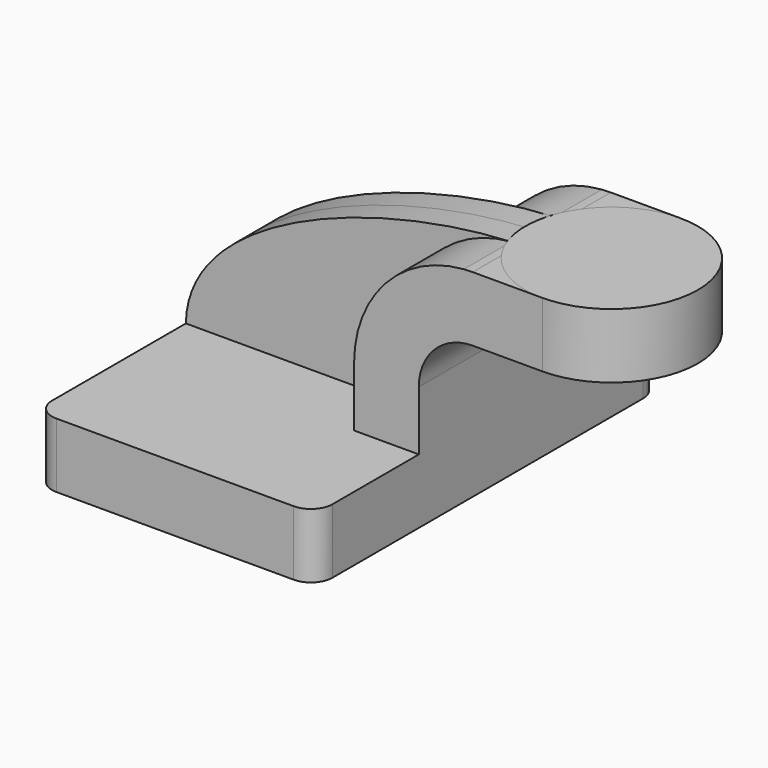
from build123d import *

# Parameters (mm, degrees)
F1_DEPTH = 63.5
F2_DEPTH = 25.4
F3_DEPTH = 7.9375
F0_W     = 25.4
F0_H     = 19.05
F5_R     = 6.35


with BuildPart() as f1:
    # F0 (on Front) → F1 (new body, symmetric)
    with BuildSketch(Plane.XZ):
        Polygon((-41.275, -9.525), (41.275, -9.525), (41.275, 9.525), (22.225, 9.525), (-41.275, 9.525), align=None)
    extrude(amount=F1_DEPTH, both=True)

    # F0 (on Front) → F2 (join, symmetric)
    with BuildSketch(Plane.XZ):
        with BuildLine():
            Line((22.225, 9.525), (41.275, 9.525))
            Line((41.275, 9.525), (41.275, 27.0002))
            ThreePointArc((41.275, 27.0002), (45.92468, 38.22552), (57.15, 42.8752))
            Line((57.15, 42.8752), (77.714364, 42.8752))
            Line((77.714364, 42.8752), (77.714364, 61.9252))
            Line((77.714364, 61.9252), (57.15, 61.9252))
            add(Edge.make_bspline(
                [(54.507831, 61.825113), (55.396234, 61.867184), (56.27721, 61.90057), (57.15, 61.9252)],
                knots=[109.087044, 109.087044, 109.087044, 109.087044, 111.504536, 111.504536, 111.504536, 111.504536], degree=3))
            ThreePointArc((54.507831, 61.825113), (31.537177, 50.743387), (22.225, 27.0002))
            Line((22.225, 27.0002), (22.225, 9.525))
        make_face()
    extrude(amount=F2_DEPTH, both=True)

    # F0 (on Front) → F3 (join, symmetric)
    with BuildSketch(Plane.XZ):
        with BuildLine():
            add(Edge.make_bspline(
                [(-41.275, 9.525), (-40.790766, 40.343855), (14.419496, 59.926707), (54.507831, 61.825113)],
                knots=[0, 0, 0, 0, 109.087044, 109.087044, 109.087044, 109.087044], degree=3))
            Line((-41.275, 9.525), (22.225, 9.525))
            Line((22.225, 9.525), (22.225, 27.0002))
            ThreePointArc((22.225, 27.0002), (31.537177, 50.743387), (54.507831, 61.825113))
        make_face()
    extrude(amount=F3_DEPTH, both=True)

    # F5
    f5_edges = [f1.edges().sort_by_distance(p)[0] for p in [
        (41.275, -63.5, 0),
        (-41.275, -63.5, 0),
        (41.275, 63.5, 0),
        (-41.275, 63.5, 0),
    ]]
    fillet(f5_edges, radius=F5_R)


with BuildPart() as f4:
    # F0 (on Front) → F4 (revolve)
    with BuildSketch(Plane.XZ):
        with Locations((90.414364, 52.4002)):
            Rectangle(F0_W, F0_H)
    revolve(axis=Axis((77.714364, 0, 52.3875), (0, 0, 1)))


solid = Compound([f1.part, f4.part])
